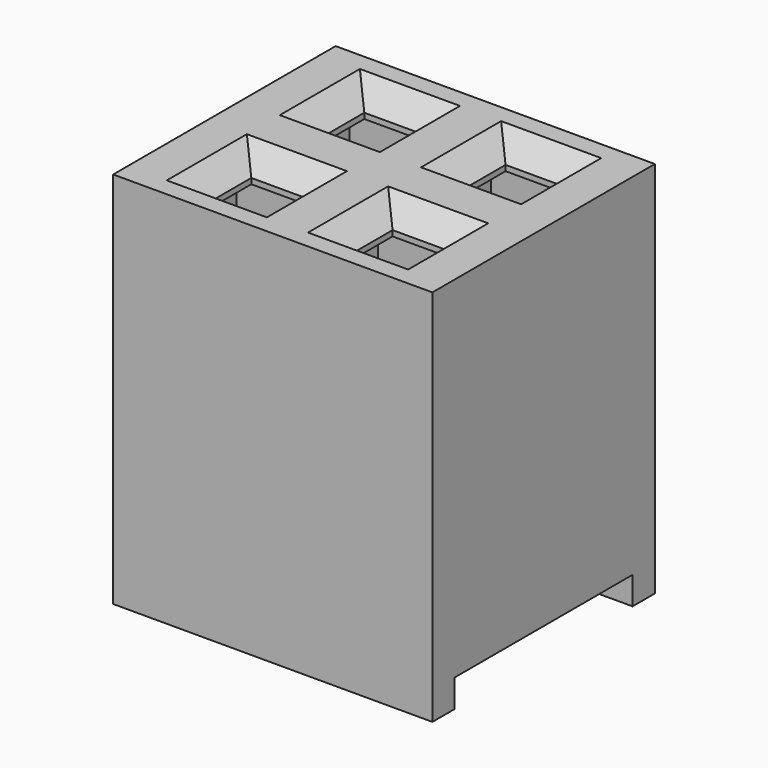
from build123d import *

# Parameters (mm, degrees)
SKETCH006_W      = 1.85
SKETCH006_H      = 1.4
EXTRUDE006_DEPTH = 6.3
SKETCH007_W      = 1
SKETCH007_H      = 1
EXTRUDE007_DEPTH = 9
SKETCH010_W      = 4
SKETCH010_H      = 4
EXTRUDE010_DEPTH = 0.5
SKETCH011_W      = 3.2
SKETCH011_H      = 5
EXTRUDE011_DEPTH = 6.8
CHAMFER002_SIZE  = 0.4
ARRAY004_X_COUNT = 2
ARRAY004_X_PITCH = 2.54


with BuildPart() as extrude006:
    # Sketch006 → Extrude006 (new body)
    with BuildSketch(Plane.XY):
        Rectangle(SKETCH006_W, SKETCH006_H)
    extrude(amount=EXTRUDE006_DEPTH)


with BuildPart() as fusion004:
    # Sketch007 → Extrude007 (new body)
    with BuildSketch(Plane.XY):
        Rectangle(SKETCH007_W, SKETCH007_H)
    extrude(amount=EXTRUDE007_DEPTH)

    # Fusion004: union Extrude006
    add(extrude006.part)


with BuildPart() as fusion004_1:
    # Fusion004 placement: moved
    add(fusion004.part.moved(Location((0, 1.27, 0))))


with BuildPart() as extrude010:
    # Sketch010 → Extrude010 (new body)
    with BuildSketch(Plane.XY):
        Rectangle(SKETCH010_W, SKETCH010_H)
    extrude(amount=EXTRUDE010_DEPTH)


with BuildPart() as fusion005:
    # Part__Mirroring002: instance of Fusion004
    add(fusion004_1.part.mirror(Plane(origin=(0, 0, 0), x_dir=(1, 0, 0), z_dir=(0, 1, 0))))

    # Fusion005: union Fusion004, Extrude010
    add(fusion004_1.part)
    add(extrude010.part)


with BuildPart() as body002:
    # Sketch011 → Extrude011 (new body)
    with BuildSketch(Plane.XY):
        Rectangle(SKETCH011_W, SKETCH011_H)
    extrude(amount=EXTRUDE011_DEPTH)

    # Cut: cut Fusion005
    add(fusion005.part, mode=Mode.SUBTRACT)

    # Chamfer002
    chamfer002_edges = [body002.edges().sort_by_distance(p)[0] for p in [
        (0, -0.77, 6.8),
        (-0.5, -1.27, 6.8),
        (0, -1.77, 6.8),
        (0.5, -1.27, 6.8),
        (0.5, 1.27, 6.8),
        (0, 1.77, 6.8),
        (-0.5, 1.27, 6.8),
        (0, 0.77, 6.8),
    ]]
    chamfer(chamfer002_edges, length=CHAMFER002_SIZE)

    # Array004 X: body002 ×2


with BuildPart() as body002_1:
    add(body002.part)
    with Locations(*[(i * ARRAY004_X_PITCH, 0, 0) for i in range(1, ARRAY004_X_COUNT)]):
        add(body002.part)


solid = body002_1.part
